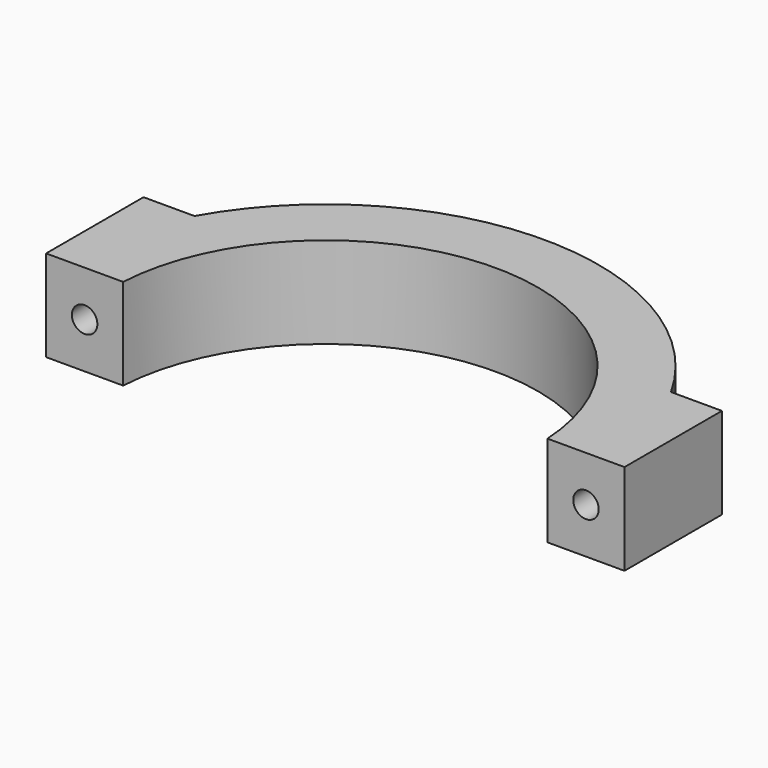
from build123d import *

# Parameters (mm, degrees)
F1_DEPTH = 19.05
F2_R     = 2.6543
F3_DEPTH = 54.466987
F4_R     = 4.826
F5_DEPTH = 39.878


with BuildPart() as f1:
    # F0 (on Top) → F1 (new body)
    with BuildSketch(Plane.XY):
        with BuildLine():
            ThreePointArc((-44.250161, 27.048605), (0, 68.814592), (44.250161, 27.048605))
            Line((44.250161, 27.048605), (60.325, 27.048605))
            Line((60.325, 27.048605), (60.325, 52.448605))
            Line((60.325, 52.448605), (49.699983, 52.448605))
            ThreePointArc((49.699983, 52.448605), (0, 81.514592), (-49.699983, 52.448605))
            Line((-49.699983, 52.448605), (-60.325, 52.448605))
            Line((-60.325, 52.448605), (-60.325, 27.048605))
            Line((-60.325, 27.048605), (-44.250161, 27.048605))
        make_face()
    extrude(amount=F1_DEPTH)

    # F2 (on face) → F3 (cut, through all)
    with BuildSketch(Plane.XZ.offset(-27.048605)):
        with Locations((-52.28758, 9.525)):
            Circle(F2_R)
        with Locations((52.287572, 9.525)):
            Circle(F2_R)
    extrude(amount=-F3_DEPTH, mode=Mode.SUBTRACT)

    # F4 (on face) → F5 (cut)
    with BuildSketch(Plane(origin=(0, 52.448605, 0), x_dir=(-1, 0, 0), z_dir=(0, 1, 0))):
        with Locations((-52.287572, 9.525)):
            Circle(F4_R)
        with Locations((52.28758, 9.525)):
            Circle(F4_R)
        with Locations((-52.287572, 79.375)):
            Circle(F4_R)
        with Locations((52.28758, 79.375)):
            Circle(F4_R)
    extrude(amount=F5_DEPTH, mode=Mode.SUBTRACT)


solid = f1.part
